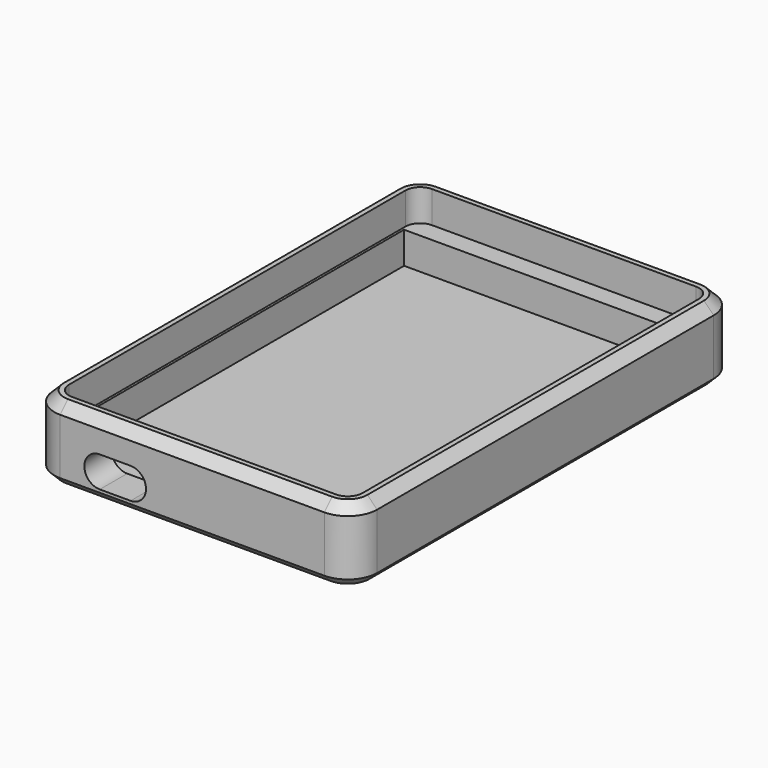
from build123d import *

# Parameters (mm, degrees)
SKETCH012_W     = 66
SKETCH012_H     = 98
PAD006_DEPTH    = 15
SKETCH013_W     = 60
SKETCH013_H     = 92
POCKET008_DEPTH = 6.5
FILLET008_R     = 3
SKETCH014_W     = 59
SKETCH014_H     = 84
POCKET009_DEPTH = 6.5
POCKET010_DEPTH = 7
FILLET009_R     = 6
CHAMFER005_SIZE = 1.6
CHAMFER006_SIZE = 2


with BuildPart() as part:
    # Sketch012 → Pad006 (new body)
    with BuildSketch(Plane.XY):
        Rectangle(SKETCH012_W, SKETCH012_H)
    extrude(amount=PAD006_DEPTH)

    # Sketch013 (on Face6 of Pad006) → Pocket008 (cut)
    with BuildSketch(Plane.XY.offset(15)):
        Rectangle(SKETCH013_W, SKETCH013_H)
    extrude(amount=-POCKET008_DEPTH, mode=Mode.SUBTRACT)

    # Fillet008
    fillet008_edges = [part.edges().sort_by_distance(p)[0] for p in [
        (30, 46, 11.75),
        (-30, 46, 11.75),
        (-30, -46, 11.75),
        (30, -46, 11.75),
    ]]
    fillet(fillet008_edges, radius=FILLET008_R)

    # Sketch014 (on Face11 of Pocket008) → Pocket009 (cut)
    with BuildSketch(Plane.XY.offset(8.5)):
        Rectangle(SKETCH014_W, SKETCH014_H)
    extrude(amount=-POCKET009_DEPTH, mode=Mode.SUBTRACT)

    # Sketch015 (on Face13 of Pocket009) → Pocket010 (cut)
    with BuildSketch(Plane.XZ.offset(49)):
        with BuildLine():
            ThreePointArc((-18.9, 8.5), (-22.05, 5.35), (-18.9, 2.2))
            Line((-18.9, 2.2), (-12.6, 2.2))
            ThreePointArc((-12.6, 2.2), (-9.45, 5.35), (-12.6, 8.5))
            Line((-12.6, 8.5), (-18.9, 8.5))
        make_face()
    extrude(amount=-POCKET010_DEPTH, mode=Mode.SUBTRACT)

    # Fillet009
    fillet009_edges = [part.edges().sort_by_distance(p)[0] for p in [
        (33, -49, 7.5),
        (33, 49, 7.5),
        (-33, -49, 7.5),
        (-33, 49, 7.5),
    ]]
    fillet(fillet009_edges, radius=FILLET009_R)

    # Chamfer005
    chamfer005_edges = [part.edges().sort_by_distance(p)[0] for p in [
        (0, 49, 0),
        (-31.242641, 47.242641, 0),
        (31.242641, 47.242641, 0),
        (-33, 0, 0),
        (33, 0, 0),
        (-31.242641, -47.242641, 0),
        (31.242641, -47.242641, 0),
        (0, -49, 0),
    ]]
    chamfer(chamfer005_edges, length=CHAMFER005_SIZE)

    # Chamfer006
    chamfer006_edges = [part.edges().sort_by_distance(p)[0] for p in [
        (-33, 0, 15),
    ]]
    chamfer(chamfer006_edges, length=CHAMFER006_SIZE)


solid = part.part
